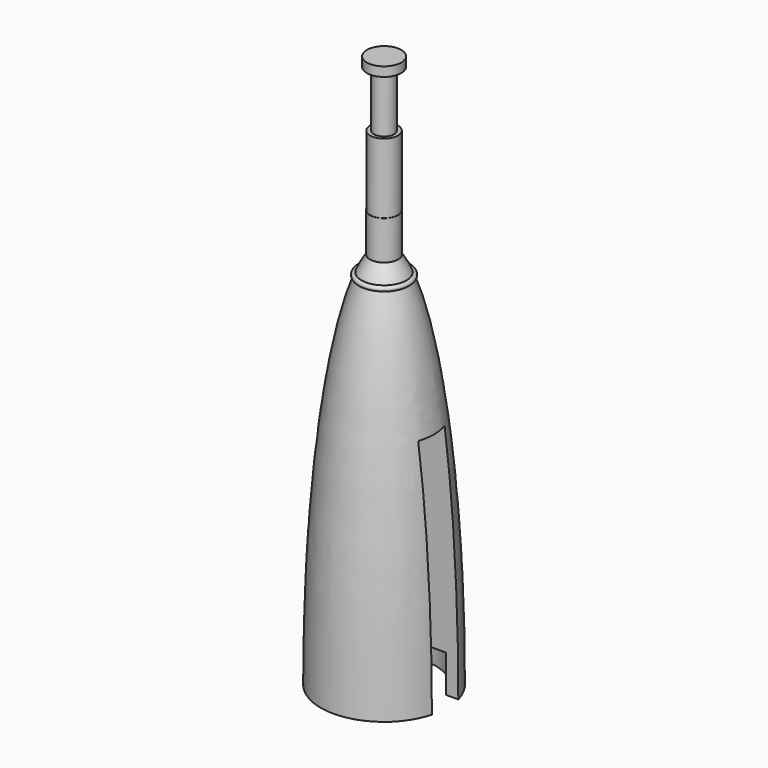
from build123d import *

# Parameters (mm, degrees)
F4_W     = 4.1551380418
F4_H     = 14.0508930199
F5_DEPTH = 0.5
F6_W     = 15.2522735298
F6_H     = 13.0339283496
F7_DEPTH = 12.5


with BuildPart() as f1:
    # F0 (on Front) → F1 (revolve)
    with BuildSketch(Plane.XZ):
        with BuildLine():
            Line((-0.4280307109, 11.4827230744), (-0.4261488038, 11.4827230744))
            add(Edge.make_bspline(
                [(-0.4261488038, 11.4827230744), (-0.556664915, 11.2998342577), (-0.6817765252, 11.007238571)],
                knots=[0.2242103955, 0.2242103955, 0.2242103955, 0.3636698207, 0.3636698207, 0.3636698207], degree=2, weights=[1, 0.9975698685, 1]))
            ThreePointArc((-0.6817765252, 11.007238571), (-0.7788007209, 10.9669177702), (-0.7377063806, 10.8702186661))
            add(Edge.make_bspline(
                [(-0.7377063806, 10.8702186661), (-4.1805245814, 2.0482402355), (-1.0087089855, -10.0145657089)],
                knots=[0.3950853549, 0.3950853549, 0.3950853549, 2.5873747735, 2.5873747735, 2.5873747735], degree=2, weights=[1, 0.4570286054, 1]))
            ThreePointArc((-1.0087089855, -10.0145657089), (-1.0611021421, -10.1053598506), (-0.9701333294, -10.1574491407))
            add(Edge.make_bspline(
                [(-0.9701333294, -10.1574491407), (-0.5208925622, -11.7775146313), (0, -11.7775146313)],
                knots=[2.610875288, 2.610875288, 2.610875288, 3.1415926536, 3.1415926536, 3.1415926536], degree=2, weights=[1, 0.9649984965, 1]))
            Line((0, -11.7775146313), (0, 11.4827230744))
            Line((0, 11.4827230744), (0, 11.7775146313))
            Line((0, 11.7775146313), (0, 12.6633324179))
            Line((0, 12.6633324179), (0, 14.7848022901))
            Line((0, 14.7848022901), (0, 16.4847507584))
            Line((0, 16.4847507584), (0, 16.7663060129))
            Line((0, 16.7663060129), (-0.5209763767, 16.7663060129))
            Line((-0.5209763767, 16.7663060129), (-0.5209763767, 16.4847507584))
            Line((-0.5209763767, 16.4847507584), (-0.3074016407, 16.4847507584))
            Line((-0.3074016407, 16.4847507584), (-0.3074016407, 14.7848022901))
            Line((-0.3074016407, 14.7848022901), (-0.419876547, 14.7848022901))
            Line((-0.419876547, 14.7848022901), (-0.419876547, 12.6633324179))
            Line((-0.419876547, 12.6633324179), (-0.4280307109, 12.6633324179))
            Line((-0.4280307109, 12.6633324179), (-0.4280307109, 11.4827230744))
        make_face()
    revolve(axis=Axis((0, 0, 0), (0, 0, -1)))

    # F2 (on Front) → F3 (revolve, cut)
    with BuildSketch(Plane.XZ):
        Polygon((0, 0), (0, 1.129917684), (-1.5530794626, 1.129917684), (-1.5530794626, 0), (-1.5530794626, -1.129917684), (0, -1.129917684), align=None)
    revolve(axis=Axis((0, 0, -0.564958842), (0, 0, -1)), mode=Mode.SUBTRACT)

    # F4 (on Front) → F5 (cut, symmetric)
    with BuildSketch(Plane.XZ):
        with Locations((2.0775690209, 0.1454737503)):
            Rectangle(F4_W, F4_H)
    extrude(amount=F5_DEPTH, both=True, mode=Mode.SUBTRACT)

    # F6 (on Front) → F7 (cut, symmetric)
    with BuildSketch(Plane.XZ):
        with Locations((0.2463888377, -6.5169641748)):
            Rectangle(F6_W, F6_H)
    extrude(amount=F7_DEPTH, both=True, mode=Mode.SUBTRACT)


solid = f1.part
